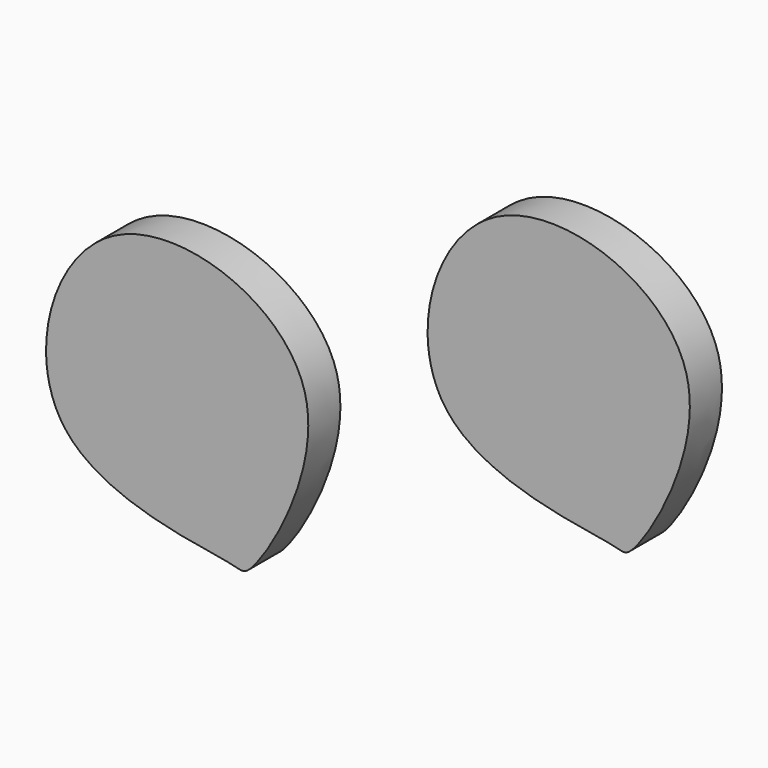
from build123d import *

# Parameters (mm, degrees)
F1_DEPTH = 25


with BuildPart() as f1:
    # F0 (on Front) → F1 (new body)
    with BuildSketch(Plane.XZ):
        with BuildLine():
            add(Edge.make_bspline(
                [(-202.5266289711, 84.4689011574), (-162.1191314882, 105.2831596917), (-35.6858747807, 59.1072170625), (-117.4795810413, -78.5404523951), (-128.4233330832, -69.5473446594), (-273.933992398, -58.2662880176), (-241.8269110967, 64.2249790244), (-202.5266289711, 84.4689011574)],
                knots=[0, 0, 0, 0, 0.2404635271, 0.4699381211, 0.5400480275, 0.7661254706, 1, 1, 1, 1], degree=3))
        make_face()
    extrude(amount=F1_DEPTH)


with BuildPart() as f1b:
    # F0 (on Front) → F1, piece 2 (new body)
    with BuildSketch(Plane.XZ):
        with BuildLine():
            add(Edge.make_bspline(
                [(35.1244221584, 172.0315928679), (75.5319196413, 192.8458514022), (201.9651763489, 146.669908773), (120.1714700882, 9.0222393154), (109.2277180463, 18.0153470511), (-36.2829412685, 29.2964036929), (-4.1758599672, 151.7876707349), (35.1244221584, 172.0315928679)],
                knots=[0, 0, 0, 0, 0.2404635271, 0.4699381211, 0.5400480275, 0.7661254706, 1, 1, 1, 1], degree=3))
        make_face()
    extrude(amount=F1_DEPTH)


solid = Compound([f1.part, f1b.part])
